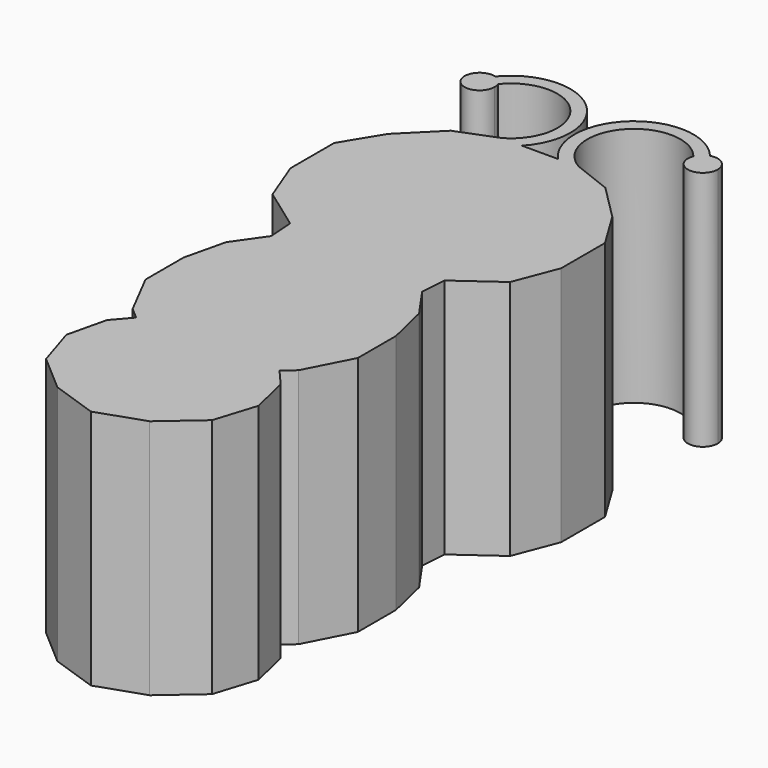
from build123d import *

# Parameters (mm, degrees)
F1_DEPTH = 25.4


with BuildPart() as f1:
    # F0 (on Top) → F1 (new body)
    with BuildSketch(Plane.XY):
        with BuildLine():
            Line((1.901049, 59.114315), (0, 59.114315))
            Line((0, 59.114315), (-1.901049, 59.114315))
            ThreePointArc((-1.901049, 59.114315), (-2.350136, 68.093283), (-11.310812, 67.365388))
            ThreePointArc((-11.310812, 67.365388), (-10.697519, 67.02209), (-10.294601, 66.446209))
            ThreePointArc((-10.294601, 66.446209), (-2.742388, 66.545365), (-4.093405, 59.114315))
            Line((-4.093405, 59.114315), (-4.12202, 59.114315))
            Line((-4.12202, 59.114315), (-8.140693, 57.541791))
            Line((-8.140693, 57.541791), (-11.809915, 53.872567))
            Line((-11.809915, 53.872567), (-14.256063, 49.853895))
            Line((-14.256063, 49.853895), (-14.256063, 44.087976))
            Line((-14.256063, 44.087976), (-12.508815, 39.545126))
            Line((-12.508815, 39.545126), (-8.140693, 36.40008))
            Line((-8.140693, 36.40008), (-7.946795, 33.663269))
            Line((-7.946795, 33.663269), (-10.162025, 30.498654))
            Line((-10.162025, 30.498654), (-11.182286, 26.177245))
            Line((-11.182286, 26.177245), (-11.182286, 21.163043))
            Line((-11.182286, 21.163043), (-8.737949, 16.416121))
            Line((-8.737949, 16.416121), (-7.551219, 15.387621))
            Line((-7.551219, 15.387621), (-9.144516, 13.549202))
            Line((-9.144516, 13.549202), (-10.120439, 9.415596))
            Line((-10.120439, 9.415596), (-8.737949, 5.02351))
            Line((-8.737949, 5.02351), (-4.864511, 1.666529))
            Line((-4.864511, 1.666529), (0, 0))
            Line((0, 0), (4.864511, 1.666529))
            Line((4.864511, 1.666529), (8.737949, 5.02351))
            Line((8.737949, 5.02351), (10.120439, 9.415596))
            Line((10.120439, 9.415596), (9.144516, 13.549202))
            Line((9.144516, 13.549202), (7.551219, 15.387621))
            Line((7.551219, 15.387621), (8.737949, 16.416121))
            Line((8.737949, 16.416121), (11.182286, 21.163043))
            Line((11.182286, 21.163043), (11.182286, 26.177245))
            Line((11.182286, 26.177245), (10.162025, 30.498654))
            Line((10.162025, 30.498654), (7.946795, 33.663269))
            Line((7.946795, 33.663269), (8.140693, 36.40008))
            Line((8.140693, 36.40008), (12.508815, 39.545126))
            Line((12.508815, 39.545126), (14.256063, 44.087976))
            Line((14.256063, 44.087976), (14.256063, 49.853895))
            Line((14.256063, 49.853895), (11.809915, 53.872567))
            Line((11.809915, 53.872567), (8.140693, 57.541791))
            Line((8.140693, 57.541791), (4.12202, 59.114315))
            Line((4.12202, 59.114315), (4.093405, 59.114315))
            ThreePointArc((4.093405, 59.114315), (2.742388, 66.545365), (10.294601, 66.446209))
            ThreePointArc((10.294601, 66.446209), (10.697519, 67.02209), (11.310812, 67.365388))
            ThreePointArc((11.310812, 67.365388), (2.350136, 68.093283), (1.901049, 59.114315))
        make_face()
        with BuildLine():
            ThreePointArc((13.329285, 65.853924), (12.698273, 67.114752), (11.310812, 67.365388))
            ThreePointArc((11.310812, 67.365388), (10.697519, 67.02209), (10.294601, 66.446209))
            ThreePointArc((10.294601, 66.446209), (11.452414, 64.307952), (13.329285, 65.853924))
        make_face()
        with BuildLine():
            ThreePointArc((-10.294601, 66.446209), (-10.697519, 67.02209), (-11.310812, 67.365388))
            ThreePointArc((-11.310812, 67.365388), (-13.014973, 64.909795), (-10.179003, 65.853924))
            ThreePointArc((-10.179003, 65.853924), (-10.208173, 66.155654), (-10.294601, 66.446209))
        make_face()
    extrude(amount=F1_DEPTH)


solid = f1.part
